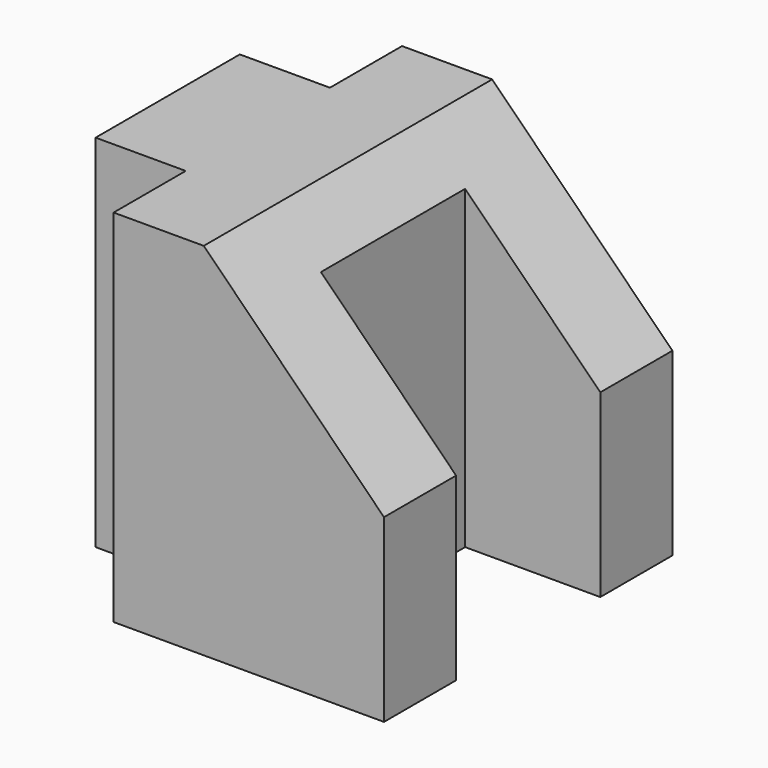
from build123d import *

# Parameters (mm, degrees)
F1_DEPTH = 25.4
F2_W     = 12.7
F2_H     = 12.7
F3_DEPTH = 50.801
F4_W     = 19.05
F4_H     = 25.4
F5_DEPTH = 50.801


with BuildPart() as f1:
    # F0 (on Front) → F1 (new body, symmetric)
    with BuildSketch(Plane.XZ):
        Polygon((0, 50.8), (0, 0), (50.8, 0), (50.8, 25.4), (25.4, 50.8), align=None)
    extrude(amount=F1_DEPTH, both=True)

    # F2 (on face) → F3 (cut, through all)
    with BuildSketch(Plane.XY.offset(50.8)):
        with Locations((6.35, 19.05)):
            Rectangle(F2_W, F2_H)
        with Locations((6.35, -19.05)):
            Rectangle(F2_W, F2_H)
    extrude(amount=-F3_DEPTH, mode=Mode.SUBTRACT)

    # F4 (on face) → F5 (cut, through all)
    with BuildSketch(Plane(origin=(0, 0, 0), x_dir=(1, 0, 0), z_dir=(0, 0, -1))):
        with Locations((41.275, 0)):
            Rectangle(F4_W, F4_H)
    extrude(amount=-F5_DEPTH, mode=Mode.SUBTRACT)


solid = f1.part
